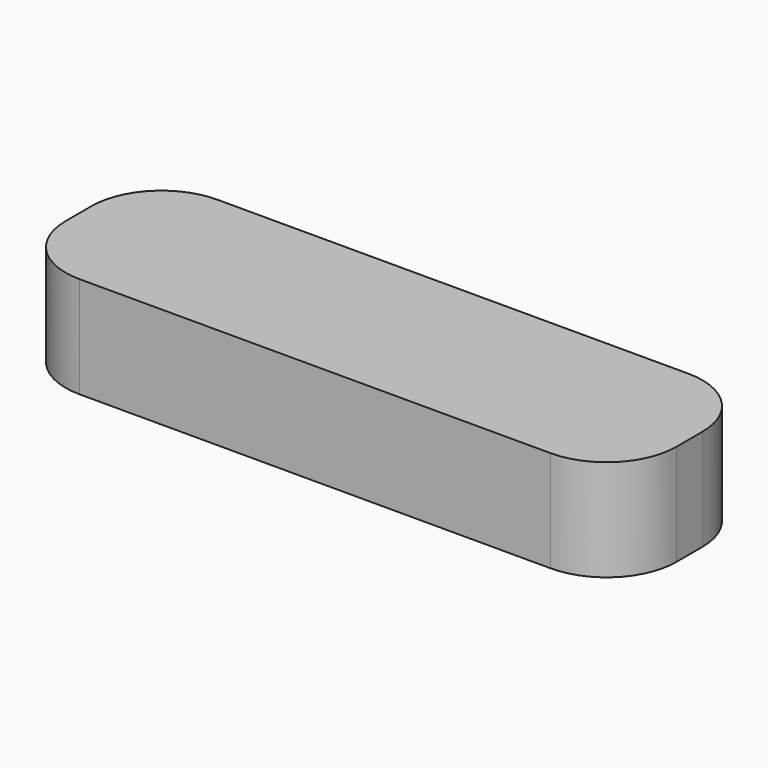
from build123d import *

# Parameters (mm, degrees)
F0_W     = 112.629154
F0_H     = 18.691752
F1_DEPTH = 31.75
F2_R     = 12.877415
F3_R     = 12.8778


with BuildPart() as f1:
    # F0 (on Front) → F1 (new body)
    with BuildSketch(Plane.XZ):
        Rectangle(F0_W, F0_H)
    extrude(amount=F1_DEPTH)

    # F2
    f2_edges = [f1.edges().sort_by_distance(p)[0] for p in [
        (56.314577, 0, 0),
        (56.314577, -31.75, 0),
    ]]
    fillet(f2_edges, radius=F2_R)

    # F3
    f3_edges = [f1.edges().sort_by_distance(p)[0] for p in [
        (-56.314577, 0, 0),
        (-56.314577, -31.75, 0),
    ]]
    fillet(f3_edges, radius=F3_R)


solid = f1.part
